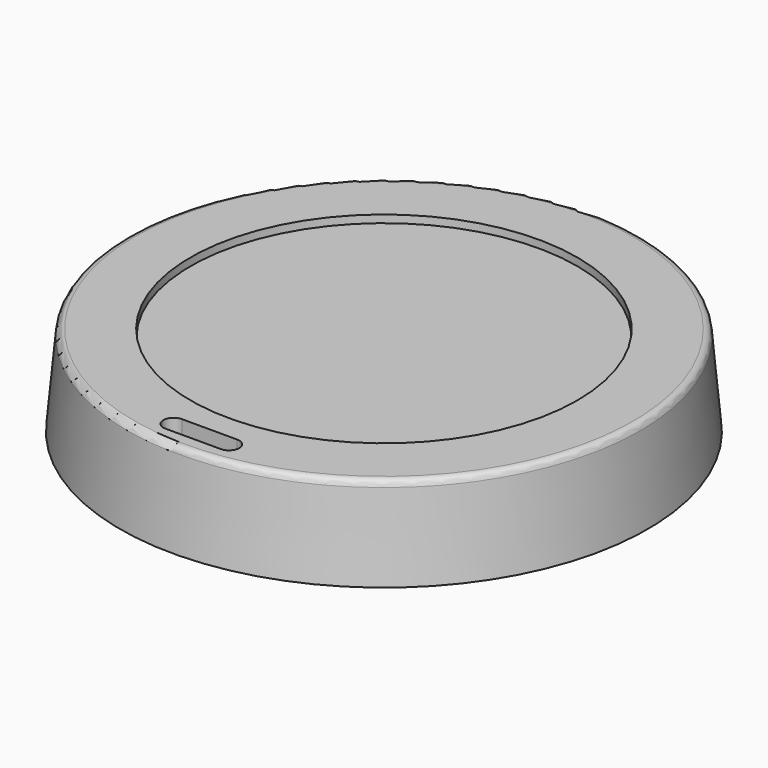
from build123d import *

# Parameters (mm, degrees)
F2_R     = 35.560914
F3_DEPTH = 20.32
F4_R     = 35.508994
F5_DEPTH = 15.24
F7_DEPTH = 73.914
F8_R     = 1.27


with BuildPart() as f1:
    # F0 (on Front) → F1 (revolve)
    with BuildSketch(Plane.XZ):
        Polygon((-48.508111, 0), (0, 0), (0, 16.615132), (-46.994206, 16.615132), align=None)
    revolve(axis=Axis((0, 0, 8.307566), (0, 0, -1)))

    # F2 (on Top) → F3 (cut)
    with BuildSketch(Plane.XY):
        Circle(F2_R)
    extrude(amount=F3_DEPTH, mode=Mode.SUBTRACT)

    # F6 (on Top) → F7 (cut, symmetric)
    with BuildSketch(Plane.XY):
        with BuildLine():
            ThreePointArc((-5.117848, -40.005002), (-7.01023, -41.897384), (-5.117848, -43.789767))
            Line((-5.117848, -43.789767), (5.042152, -43.789767))
            ThreePointArc((5.042152, -43.789767), (6.934534, -41.897384), (5.042152, -40.005002))
            Line((5.042152, -40.005002), (-5.117848, -40.005002))
        make_face()
    extrude(amount=F7_DEPTH, both=True, mode=Mode.SUBTRACT)

    # F8
    f8_edges = [f1.edges().sort_by_distance(p)[0] for p in [
        (46.994206, 0, 16.615132),
    ]]
    fillet(f8_edges, radius=F8_R)


with BuildPart() as f5:
    # F4 (on Top) → F5 (new body)
    with BuildSketch(Plane.XY):
        Circle(F4_R)
    extrude(amount=F5_DEPTH)


solid = Compound([f1.part, f5.part])
